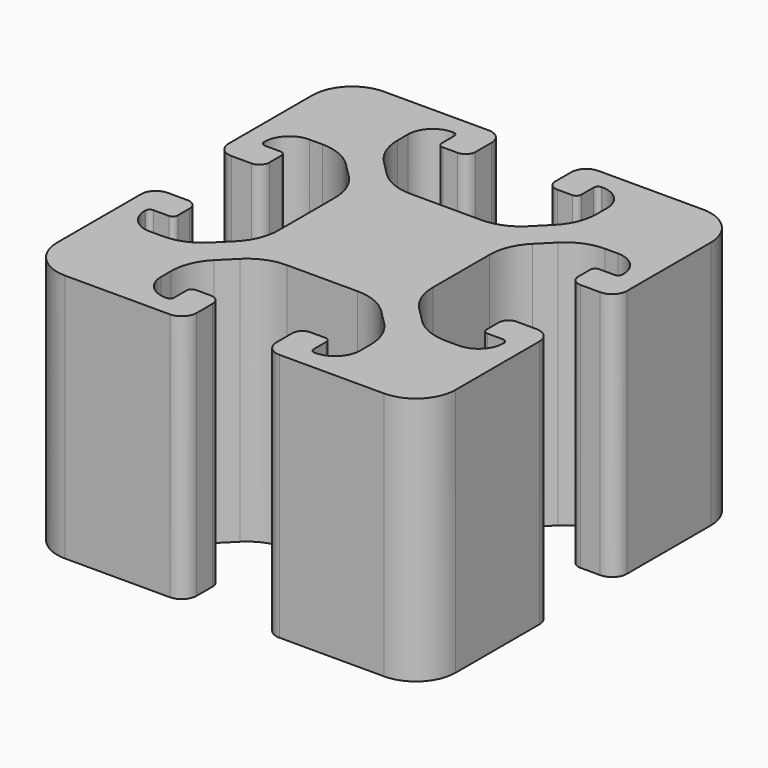
from build123d import *

# Parameters (mm, degrees)
F1_DEPTH = 25


with BuildPart() as f1:
    # F0 (on Top) → F1 (new body)
    with BuildSketch(Plane.XY):
        with BuildLine():
            Line((-16.5, -4), (-18.5, -4))
            ThreePointArc((-18.5, -4), (-19.56066, -4.43934), (-20, -5.5))
            Line((-20, -5.5), (-20, -16))
            ThreePointArc((-20, -16), (-18.828427, -18.828427), (-16, -20))
            Line((-16, -20), (-5.5, -20))
            ThreePointArc((-5.5, -20), (-4.43934, -19.56066), (-4, -18.5))
            Line((-4, -18.5), (-4, -16.5))
            ThreePointArc((-4, -16.5), (-4.292893, -15.792893), (-5, -15.5))
            Line((-5, -15.5), (-6.5, -15.5))
            ThreePointArc((-6.5, -15.5), (-6.853553, -15.646447), (-7, -16))
            Line((-7, -16), (-7, -17.55))
            ThreePointArc((-7, -17.55), (-7.131802, -17.868198), (-7.45, -18))
            Line((-7.45, -18), (-7.5, -18))
            ThreePointArc((-7.5, -18), (-9.267767, -17.267767), (-10, -15.5))
            Line((-10, -15.5), (-10, -14.192388))
            ThreePointArc((-10, -14.192388), (-9.619398, -12.278971), (-8.535534, -10.656854))
            Line((-8.535534, -10.656854), (-7.093146, -9.214466))
            ThreePointArc((-7.093146, -9.214466), (-5.471029, -8.130602), (-3.557612, -7.75))
            Line((-3.557612, -7.75), (3.557612, -7.75))
            ThreePointArc((3.557612, -7.75), (5.471029, -8.130602), (7.093146, -9.214466))
            Line((7.093146, -9.214466), (8.535534, -10.656854))
            ThreePointArc((8.535534, -10.656854), (9.619398, -12.278971), (10, -14.192388))
            Line((10, -14.192388), (10, -15.5))
            ThreePointArc((10, -15.5), (9.267767, -17.267767), (7.5, -18))
            Line((7.5, -18), (7.45, -18))
            ThreePointArc((7.45, -18), (7.131802, -17.868198), (7, -17.55))
            Line((7, -17.55), (7, -16))
            ThreePointArc((7, -16), (6.853553, -15.646447), (6.5, -15.5))
            Line((6.5, -15.5), (5, -15.5))
            ThreePointArc((5, -15.5), (4.292893, -15.792893), (4, -16.5))
            Line((4, -16.5), (4, -18.5))
            ThreePointArc((4, -18.5), (4.43934, -19.56066), (5.5, -20))
            Line((5.5, -20), (16, -20))
            ThreePointArc((16, -20), (18.828427, -18.828427), (20, -16))
            Line((20, -16), (20, -5.5))
            ThreePointArc((20, -5.5), (19.56066, -4.43934), (18.5, -4))
            Line((18.5, -4), (16.5, -4))
            ThreePointArc((16.5, -4), (15.792893, -4.292893), (15.5, -5))
            Line((15.5, -5), (15.5, -6.5))
            ThreePointArc((15.5, -6.5), (15.646447, -6.853553), (16, -7))
            Line((16, -7), (17.55, -7))
            ThreePointArc((17.55, -7), (17.868198, -7.131802), (18, -7.45))
            Line((18, -7.45), (18, -7.5))
            ThreePointArc((18, -7.5), (17.267767, -9.267767), (15.5, -10))
            Line((15.5, -10), (14.192388, -10))
            ThreePointArc((14.192388, -10), (12.278971, -9.619398), (10.656854, -8.535534))
            Line((10.656854, -8.535534), (9.214466, -7.093146))
            ThreePointArc((9.214466, -7.093146), (8.130602, -5.471029), (7.75, -3.557612))
            Line((7.75, -3.557612), (7.75, 3.557612))
            ThreePointArc((7.75, 3.557612), (8.130602, 5.471029), (9.214466, 7.093146))
            Line((9.214466, 7.093146), (10.656854, 8.535534))
            ThreePointArc((10.656854, 8.535534), (12.278971, 9.619398), (14.192388, 10))
            Line((14.192388, 10), (15.5, 10))
            ThreePointArc((15.5, 10), (17.267767, 9.267767), (18, 7.5))
            Line((18, 7.5), (18, 7.45))
            ThreePointArc((18, 7.45), (17.868198, 7.131802), (17.55, 7))
            Line((17.55, 7), (16, 7))
            ThreePointArc((16, 7), (15.646447, 6.853553), (15.5, 6.5))
            Line((15.5, 6.5), (15.5, 5))
            ThreePointArc((15.5, 5), (15.792893, 4.292893), (16.5, 4))
            Line((16.5, 4), (18.5, 4))
            ThreePointArc((18.5, 4), (19.56066, 4.43934), (20, 5.5))
            Line((20, 5.5), (20, 16))
            ThreePointArc((20, 16), (18.828427, 18.828427), (16, 20))
            Line((16, 20), (5.5, 20))
            ThreePointArc((5.5, 20), (4.43934, 19.56066), (4, 18.5))
            Line((4, 18.5), (4, 16.5))
            ThreePointArc((4, 16.5), (4.292893, 15.792893), (5, 15.5))
            Line((5, 15.5), (6.5, 15.5))
            ThreePointArc((6.5, 15.5), (6.853553, 15.646447), (7, 16))
            Line((7, 16), (7, 17.55))
            ThreePointArc((7, 17.55), (7.131802, 17.868198), (7.45, 18))
            Line((7.45, 18), (7.5, 18))
            ThreePointArc((7.5, 18), (9.267767, 17.267767), (10, 15.5))
            Line((10, 15.5), (10, 14.192388))
            ThreePointArc((10, 14.192388), (9.619398, 12.278971), (8.535534, 10.656854))
            Line((8.535534, 10.656854), (7.093146, 9.214466))
            ThreePointArc((7.093146, 9.214466), (5.471029, 8.130602), (3.557612, 7.75))
            Line((3.557612, 7.75), (-3.557612, 7.75))
            ThreePointArc((-3.557612, 7.75), (-5.471029, 8.130602), (-7.093146, 9.214466))
            Line((-7.093146, 9.214466), (-8.535534, 10.656854))
            ThreePointArc((-8.535534, 10.656854), (-9.619398, 12.278971), (-10, 14.192388))
            Line((-10, 14.192388), (-10, 15.5))
            ThreePointArc((-10, 15.5), (-9.267767, 17.267767), (-7.5, 18))
            Line((-7.5, 18), (-7.45, 18))
            ThreePointArc((-7.45, 18), (-7.131802, 17.868198), (-7, 17.55))
            Line((-7, 17.55), (-7, 16))
            ThreePointArc((-7, 16), (-6.853553, 15.646447), (-6.5, 15.5))
            Line((-6.5, 15.5), (-5, 15.5))
            ThreePointArc((-5, 15.5), (-4.292893, 15.792893), (-4, 16.5))
            Line((-4, 16.5), (-4, 18.5))
            ThreePointArc((-4, 18.5), (-4.43934, 19.56066), (-5.5, 20))
            Line((-5.5, 20), (-16, 20))
            ThreePointArc((-16, 20), (-18.828427, 18.828427), (-20, 16))
            Line((-20, 16), (-20, 5.5))
            ThreePointArc((-20, 5.5), (-19.56066, 4.43934), (-18.5, 4))
            Line((-18.5, 4), (-16.5, 4))
            ThreePointArc((-16.5, 4), (-15.792893, 4.292893), (-15.5, 5))
            Line((-15.5, 5), (-15.5, 6.5))
            ThreePointArc((-15.5, 6.5), (-15.646447, 6.853553), (-16, 7))
            Line((-16, 7), (-17.55, 7))
            ThreePointArc((-17.55, 7), (-17.868198, 7.131802), (-18, 7.45))
            Line((-18, 7.45), (-18, 7.5))
            ThreePointArc((-18, 7.5), (-17.267767, 9.267767), (-15.5, 10))
            Line((-15.5, 10), (-14.192388, 10))
            ThreePointArc((-14.192388, 10), (-12.278971, 9.619398), (-10.656854, 8.535534))
            Line((-10.656854, 8.535534), (-9.214466, 7.093146))
            ThreePointArc((-9.214466, 7.093146), (-8.130602, 5.471029), (-7.75, 3.557612))
            Line((-7.75, 3.557612), (-7.75, -3.557612))
            ThreePointArc((-7.75, -3.557612), (-8.130602, -5.471029), (-9.214466, -7.093146))
            Line((-9.214466, -7.093146), (-10.656854, -8.535534))
            ThreePointArc((-10.656854, -8.535534), (-12.278971, -9.619398), (-14.192388, -10))
            Line((-14.192388, -10), (-15.5, -10))
            ThreePointArc((-15.5, -10), (-17.267767, -9.267767), (-18, -7.5))
            Line((-18, -7.5), (-18, -7.45))
            ThreePointArc((-18, -7.45), (-17.868198, -7.131802), (-17.55, -7))
            Line((-17.55, -7), (-16, -7))
            ThreePointArc((-16, -7), (-15.646447, -6.853553), (-15.5, -6.5))
            Line((-15.5, -6.5), (-15.5, -5))
            ThreePointArc((-15.5, -5), (-15.792893, -4.292893), (-16.5, -4))
        make_face()
    extrude(amount=F1_DEPTH)


solid = f1.part
